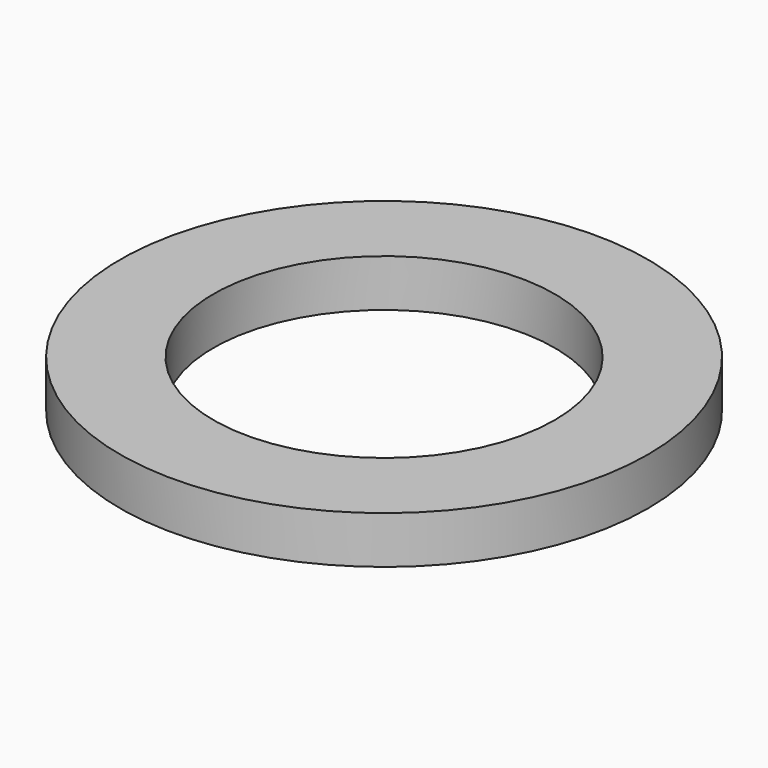
from build123d import *

# Parameters (mm, degrees)
CYLINDER002_R     = 10.8
CYLINDER002_DEPTH = 3
CYLINDER004_R     = 16.7
CYLINDER004_DEPTH = 3


with BuildPart() as cylinder002:
    # Cylinder002 → Cylinder002 (new body)
    with BuildSketch(Plane.XY.offset(57)):
        Circle(CYLINDER002_R)
    extrude(amount=CYLINDER002_DEPTH)


with BuildPart() as obj1:
    # Cylinder004 → Cylinder004 (new body)
    with BuildSketch(Plane.XY.offset(57)):
        Circle(CYLINDER004_R)
    extrude(amount=CYLINDER004_DEPTH)

    # Cut: cut Cylinder002
    add(cylinder002.part, mode=Mode.SUBTRACT)


solid = obj1.part
